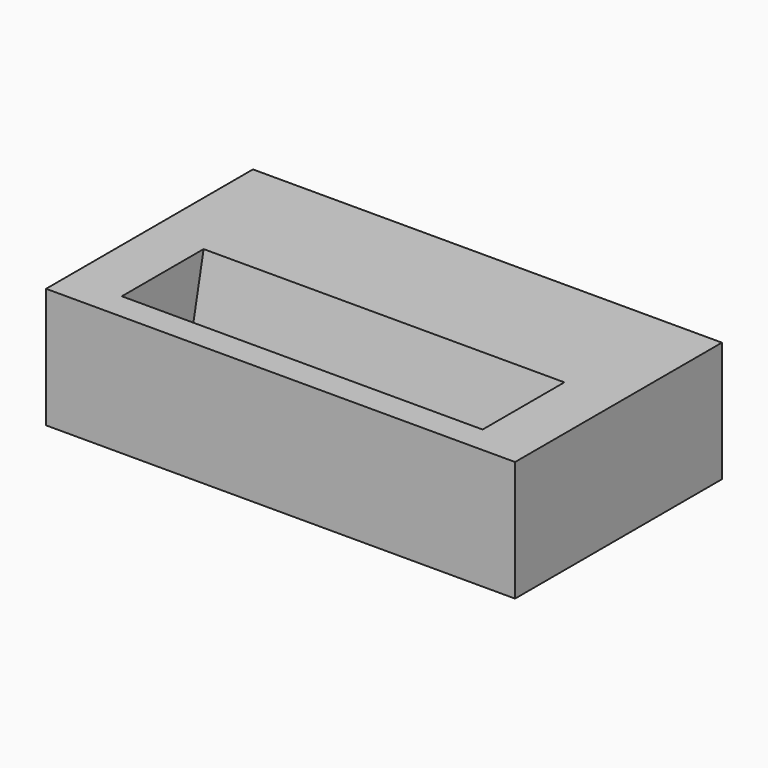
from build123d import *

# Parameters (mm, degrees)
SKETCH003_W   = 39
SKETCH003_H   = 21.5
SKETCH003_W_2 = 30
SKETCH003_H_2 = 5.5
PAD003_DEPTH  = 10
SKETCH004_W   = 36
SKETCH004_H   = 20.5
POCKET_DEPTH  = 10
CHAMFER_SIZE2 = 7
CHAMFER_SIZE  = 1.5


with BuildPart() as part:
    # Sketch003 → Pad003 (new body)
    with BuildSketch(Plane.XY.offset(13)):
        with Locations((17.5, -76.25)):
            Rectangle(SKETCH003_W, SKETCH003_H)
        with Locations((17.5, -80.5)):
            Rectangle(SKETCH003_W_2, SKETCH003_H_2, mode=Mode.SUBTRACT)
    extrude(amount=PAD003_DEPTH)

    # Sketch004 → Pocket (cut)
    with BuildSketch(Plane.XY.offset(15.5)):
        with Locations((17, -75.75)):
            Rectangle(SKETCH004_W, SKETCH004_H)
    extrude(amount=-POCKET_DEPTH, mode=Mode.SUBTRACT)

    # Chamfer
    chamfer_edges = [part.edges().sort_by_distance(p)[0] for p in [
        (17.5, -77.75, 23),
        (17.5, -83.25, 23),
    ]]
    chamfer_side = part.faces().sort_by_distance((17.5, -75.208797, 23))[0]
    chamfer(chamfer_edges, length=CHAMFER_SIZE, length2=CHAMFER_SIZE2, reference=chamfer_side)


solid = part.part
